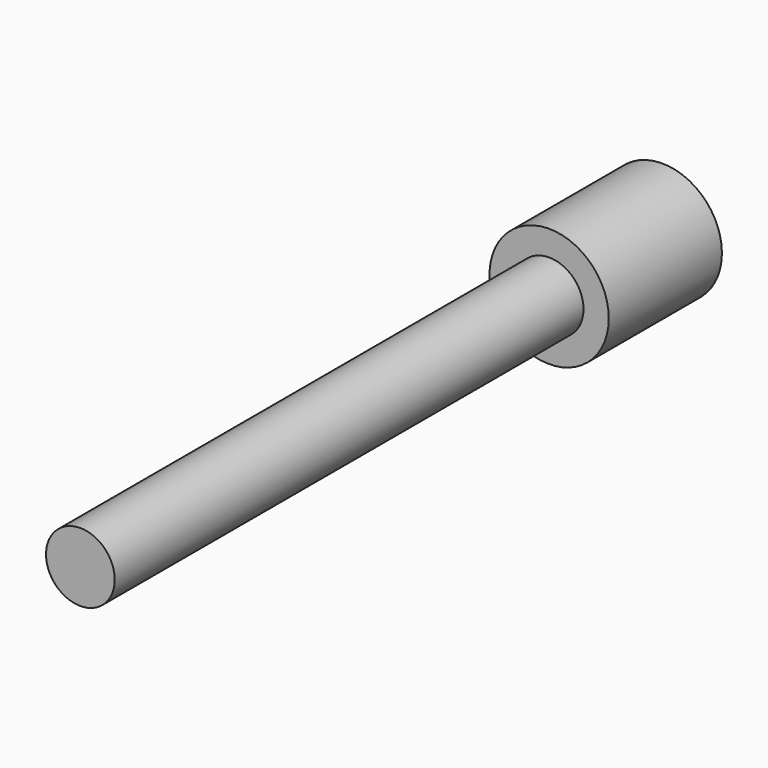
from build123d import *

# Parameters (mm, degrees)
CYLINDER_R          = 2.95
CYLINDER_DEPTH      = 7
CYLINDER001_R       = 1.7
CYLINDER001_DEPTH   = 30
CLONE055_ROLL_ANGLE = 90


with BuildPart() as m3bolthead:
    # Cylinder → Cylinder (new body)
    with BuildSketch(Plane.XY):
        Circle(CYLINDER_R)
    extrude(amount=CYLINDER_DEPTH)


with BuildPart() as clone_of_m3bolt018:
    # Cylinder001 → Cylinder001 (new body)
    with BuildSketch(Plane.XY.offset(6)):
        Circle(CYLINDER001_R)
    extrude(amount=CYLINDER001_DEPTH)

    # Fusion: union M3BoltHead
    add(m3bolthead.part)


with BuildPart() as clone_of_m3bolt018_1:
    # Clone055 roll: moved
    add(clone_of_m3bolt018.part.rotate(Axis((0, 0, 0), (1, 0, 0)), CLONE055_ROLL_ANGLE))


with BuildPart() as clone_of_m3bolt018_2:
    # Clone055 placement: moved
    add(clone_of_m3bolt018_1.part.moved(Location((-31.5, 70, 8))))


solid = clone_of_m3bolt018_2.part
